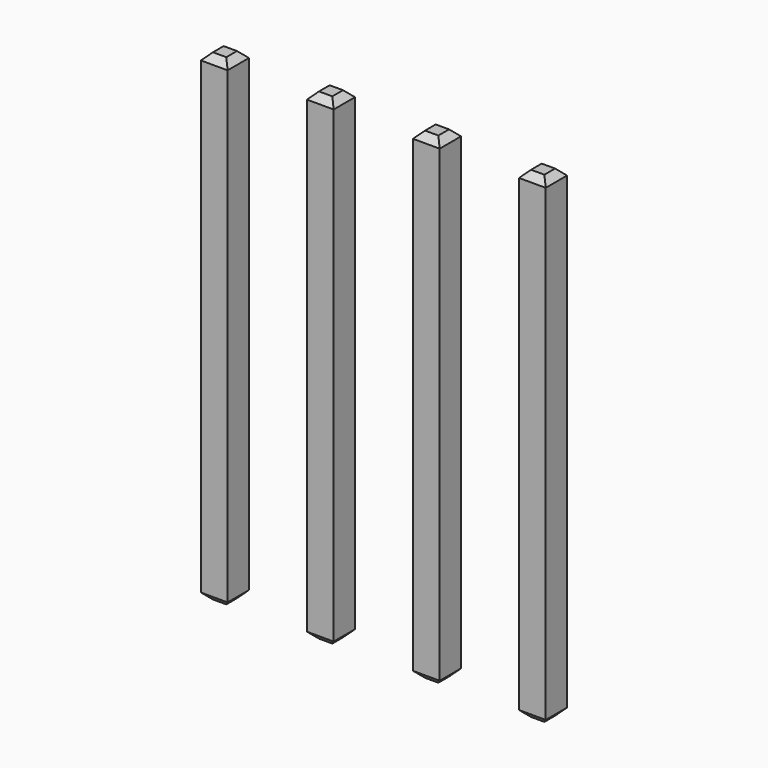
from build123d import *

# Parameters (mm, degrees)
SKETCH227_W       = 0.64
SKETCH227_H       = 11.54
PAD082_DEPTH      = 0.32
PAD082_DEPTH_BACK = 0.32
CHAMFER046_SIZE   = 0.16
ARRAY020_X_COUNT  = 4
ARRAY020_X_PITCH  = 2.54


with BuildPart() as part:
    # Sketch227 → Pad082 (new body, two sides)
    with BuildSketch(Plane.XZ) as pad082_sk:
        with Locations((0, 2.77)):
            Rectangle(SKETCH227_W, SKETCH227_H)
    extrude(amount=PAD082_DEPTH)
    extrude(pad082_sk.sketch, amount=-PAD082_DEPTH_BACK)

    # Chamfer046
    chamfer046_edges = [part.edges().sort_by_distance(p)[0] for p in [
        (0.32, 0, 8.54),
        (-0.32, 0, 8.54),
        (0, 0.32, 8.54),
        (0, -0.32, 8.54),
        (-0.32, 0, -3),
        (0.32, 0, -3),
        (0, 0.32, -3),
        (0, -0.32, -3),
    ]]
    chamfer(chamfer046_edges, length=CHAMFER046_SIZE)

    # Array020 X: part ×4


with BuildPart() as part_1:
    add(part.part)
    with Locations(*[(i * ARRAY020_X_PITCH, 0, 0) for i in range(1, ARRAY020_X_COUNT)]):
        add(part.part)


solid = part_1.part
